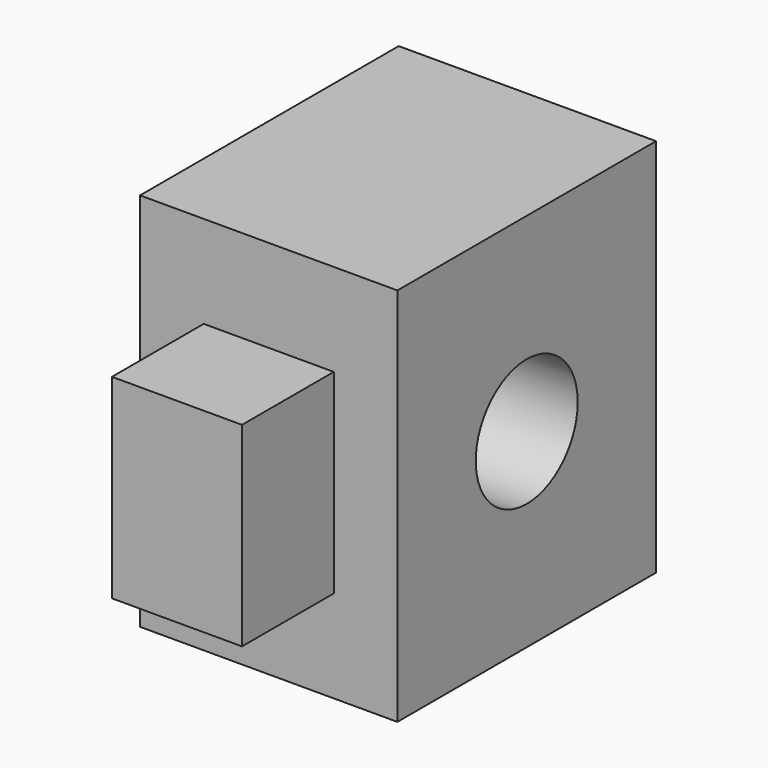
from build123d import *

# Parameters (mm, degrees)
F0_W     = 56.9933205843
F0_H     = 84.123885259
F1_DEPTH = 71.59423
F2_R     = 14.1167569705
F3_DEPTH = 25.4
F4_W     = 28.7987589836
F4_H     = 43.1953351945
F5_DEPTH = 25.4


with BuildPart() as f1:
    # F0 (on Front) → F1 (new body)
    with BuildSketch(Plane.XZ):
        with Locations((-84.2327773571, 12.7716520801)):
            Rectangle(F0_W, F0_H)
    extrude(amount=F1_DEPTH)

    # F2 (on face) → F3 (cut)
    with BuildSketch(Plane.YZ.offset(-55.736117065)):
        with Locations((-35.797115, 12.7716520801)):
            Circle(F2_R)
    extrude(amount=-F3_DEPTH, mode=Mode.SUBTRACT)

    # F4 (on face) → F5 (join)
    with BuildSketch(Plane.XZ.offset(71.59423)):
        with Locations((-84.2327773571, 12.7716520801)):
            Rectangle(F4_W, F4_H)
    extrude(amount=F5_DEPTH)


solid = f1.part
